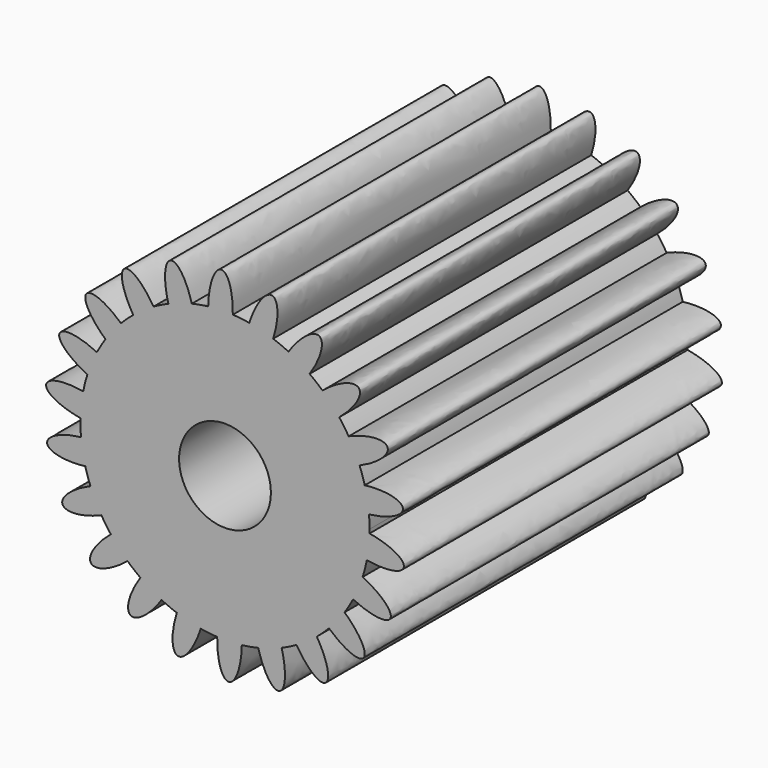
from build123d import *

# Parameters (mm, degrees)
F1_DEPTH = 21.9964


with BuildPart() as f1:
    # F0 (on Front) → F1 (new body)
    with BuildSketch(Plane.XZ):
        with BuildLine():
            ThreePointArc((8.0161047797, -0.495578575), (8.0181994145, -0.3899014812), (8.0188976667, -0.2842059369))
            ThreePointArc((8.0188976667, -0.2842059369), (8.0110159259, 0.0708232595), (7.9873862341, 0.4251528938))
            ThreePointArc((7.9873862341, 0.4251528938), (7.8981258153, 1.1006275486), (7.7517122539, 1.7660571095))
            ThreePointArc((7.7517122539, 1.7660571095), (7.6208442801, 2.2078630201), (7.4647569804, 2.6414015352))
            ThreePointArc((7.4647569804, 2.6414015352), (7.1888090341, 3.2643671543), (6.8608530792, 3.8615926754))
            ThreePointArc((6.8608530792, 3.8615926754), (6.610815069, 4.2486325735), (6.3389084873, 4.6206348585))
            ThreePointArc((6.3389084873, 4.6206348585), (5.8986286751, 5.1406224723), (5.4156993675, 5.6212602938))
            ThreePointArc((5.4156993675, 5.6212602938), (5.0667479136, 5.9221785086), (4.701050304, 6.2025071507))
            ThreePointArc((4.701050304, 6.2025071507), (4.1321074778, 6.5773904553), (3.5333288781, 6.9025021593))
            ThreePointArc((3.5333288781, 6.9025021593), (3.1137339519, 7.0929200867), (2.6838719599, 7.2588645266))
            ThreePointArc((2.6838719599, 7.2588645266), (2.0323584839, 7.4582727062), (1.3662400731, 7.6015196759))
            ThreePointArc((1.3662400731, 7.6015196759), (0.90999476, 7.6660107879), (0.4507932478, 7.7041271938))
            ThreePointArc((0.4507932478, 7.7041271938), (0.28348099, 7.7114175951), (0.1160527846, 7.7152040966))
            Line((0.1160527846, 7.7152040966), (0.0497444166, 2.2556067488))
            ThreePointArc((0.0497444166, 2.2556067488), (1.8258219519, 1.5009060001), (2.5588976667, -0.2842059369))
            ThreePointArc((2.5588976667, -0.2842059369), (-1.6423982056, -2.205584615), (-0.3479495968, 2.2291629348))
            Line((-0.3479495968, 2.2291629348), (-1.1365267853, 7.6319164937))
            ThreePointArc((-1.1365267853, 7.6319164937), (-1.4783059162, 7.5744441655), (-1.8172750757, 7.5022226193))
            ThreePointArc((-1.8172750757, 7.5022226193), (-2.4731712903, 7.3177406766), (-3.1109909155, 7.0781168938))
            ThreePointArc((-3.1109909155, 7.0781168938), (-3.5296754244, 6.8857054306), (-3.9365876037, 6.6695079108))
            ThreePointArc((-3.9365876037, 6.6695079108), (-4.5139408437, 6.3077114655), (-5.0584144715, 5.8980995758))
            ThreePointArc((-5.0584144715, 5.8980995758), (-5.4059307425, 5.5955250715), (-5.7354502394, 5.2734446617))
            ThreePointArc((-5.7354502394, 5.2734446617), (-6.1874867788, 4.76364431), (-6.594504394, 4.2172286327))
            ThreePointArc((-6.594504394, 4.2172286327), (-6.8426987255, 3.8290038743), (-7.0681298301, 3.4271336138))
            ThreePointArc((-7.0681298301, 3.4271336138), (-7.3582283569, 2.8106303483), (-7.594815813, 2.1716782318))
            ThreePointArc((-7.594815813, 2.1716782318), (-7.7235809763, 1.7292548804), (-7.8266606012, 1.2801519076))
            ThreePointArc((-7.8266606012, 1.2801519076), (-7.9313190581, 0.6068911565), (-7.9783094463, -0.0728332987))
            ThreePointArc((-7.9783094463, -0.0728332987), (-7.9772136538, -0.5336127345), (-7.9495909008, -0.9935647675))
            ThreePointArc((-7.9495909008, -0.9935647675), (-7.8603304819, -1.6690394223), (-7.7139169206, -2.3344689832))
            ThreePointArc((-7.7139169206, -2.3344689832), (-7.5830489468, -2.7762748938), (-7.426961647, -3.2098134089))
            ThreePointArc((-7.426961647, -3.2098134089), (-7.1510137008, -3.832779028), (-6.8230577458, -4.4300045492))
            ThreePointArc((-6.8230577458, -4.4300045492), (-6.5730197356, -4.8170444472), (-6.3011131539, -5.1890467322))
            ThreePointArc((-6.3011131539, -5.1890467322), (-5.8608333417, -5.709034346), (-5.3779040342, -6.1896721675))
            ThreePointArc((-5.3779040342, -6.1896721675), (-5.0289525802, -6.4905903823), (-4.6632549707, -6.7709190244))
            ThreePointArc((-4.6632549707, -6.7709190244), (-4.0943121445, -7.145802329), (-3.4955335448, -7.4709140331))
            ThreePointArc((-3.4955335448, -7.4709140331), (-3.0759386185, -7.6613319604), (-2.6460766266, -7.8272764003))
            ThreePointArc((-2.6460766266, -7.8272764003), (-1.9945631505, -8.0266845799), (-1.3284447398, -8.1699315496))
            ThreePointArc((-1.3284447398, -8.1699315496), (-0.8721994267, -8.2344226616), (-0.4129979145, -8.2725390676))
            ThreePointArc((-0.4129979145, -8.2725390676), (0.2683044643, -8.2803172573), (0.9477977341, -8.2300944753))
            ThreePointArc((0.9477977341, -8.2300944753), (1.4037311521, -8.1634340855), (1.855070409, -8.070634493))
            ThreePointArc((1.855070409, -8.070634493), (2.5109666237, -7.8861525503), (3.1487862489, -7.6465287675))
            ThreePointArc((3.1487862489, -7.6465287675), (3.5674707578, -7.4541173043), (3.9743829371, -7.2379197845))
            ThreePointArc((3.9743829371, -7.2379197845), (4.551736177, -6.8761233392), (5.0962098049, -6.4665114495))
            ThreePointArc((5.0962098049, -6.4665114495), (5.4437260758, -6.1639369453), (5.7732455727, -5.8418565354))
            ThreePointArc((5.7732455727, -5.8418565354), (6.2252821121, -5.3320561838), (6.6322997274, -4.7856405064))
            ThreePointArc((6.6322997274, -4.7856405064), (6.8804940589, -4.397415748), (7.1059251635, -3.9955454875))
            ThreePointArc((7.1059251635, -3.9955454875), (7.3960236903, -3.3790422221), (7.6326111463, -2.7400901055))
            ThreePointArc((7.6326111463, -2.7400901055), (7.7613763097, -2.2976667541), (7.8644559345, -1.8485637813))
            ThreePointArc((7.8644559345, -1.8485637813), (7.9691143914, -1.1753030302), (8.0161047797, -0.495578575))
        make_face()
        with BuildLine():
            ThreePointArc((7.7517122539, 1.7660571095), (7.8981258153, 1.1006275486), (7.9873862341, 0.4251528938))
            add(Edge.make_bspline(
                [(7.9873862341, 0.4251528938), (9.9799214507, 0.6578454674), (9.8603263673, 1.3383005235), (9.740731284, 2.0187555796), (7.7517122539, 1.7660571095)],
                knots=[1.5766588322, 1.5766588322, 1.5766588322, 3.162156069, 3.162156069, 4.7476533058, 4.7476533058, 4.7476533058], degree=2, weights=[1, 0.7018901693, 1, 0.7018901693, 1]))
        make_face()
        with BuildLine():
            add(Edge.make_bspline(
                [(7.8644559345, -1.8485637813), (9.8418365482, -2.1866589331), (9.9187922489, -1.5000732593), (9.9957479495, -0.8134875855), (8.0161047797, -0.495578575)],
                knots=[1.5766588322, 1.5766588322, 1.5766588322, 3.162156069, 3.162156069, 4.7476533058, 4.7476533058, 4.7476533058], degree=2, weights=[1, 0.7018901693, 1, 0.7018901693, 1]))
            ThreePointArc((8.0161047797, -0.495578575), (7.9691143914, -1.1753030302), (7.8644559345, -1.8485637813))
        make_face()
        with BuildLine():
            ThreePointArc((6.8608530792, 3.8615926754), (7.1888090341, 3.2643671543), (7.4647569804, 2.6414015352))
            add(Edge.make_bspline(
                [(7.4647569804, 2.6414015352), (9.3110234466, 3.4260304657), (9.0045664617, 4.0452284823), (8.6981094768, 4.6644264989), (6.8608530792, 3.8615926754)],
                knots=[1.5766588322, 1.5766588322, 1.5766588322, 3.162156069, 3.162156069, 4.7476533058, 4.7476533058, 4.7476533058], degree=2, weights=[1, 0.7018901693, 1, 0.7018901693, 1]))
        make_face()
        with BuildLine():
            add(Edge.make_bspline(
                [(7.1059251635, -3.9955454875), (8.9079555569, -4.8770379062), (9.1752275483, -4.2399447027), (9.4424995397, -3.6028514992), (7.6326111463, -2.7400901055)],
                knots=[1.5766588322, 1.5766588322, 1.5766588322, 3.162156069, 3.162156069, 4.7476533058, 4.7476533058, 4.7476533058], degree=2, weights=[1, 0.7018901693, 1, 0.7018901693, 1]))
            ThreePointArc((7.6326111463, -2.7400901055), (7.3960236903, -3.3790422221), (7.1059251635, -3.9955454875))
        make_face()
        with BuildLine():
            ThreePointArc((5.4156993675, 5.6212602938), (5.8986286751, 5.1406224723), (6.3389084873, 4.6206348585))
            add(Edge.make_bspline(
                [(6.3389084873, 4.6206348585), (7.8893326743, 5.8936341764), (7.4208411102, 6.4014114126), (6.9523495461, 6.9091886488), (5.4156993675, 5.6212602938)],
                knots=[1.5766588322, 1.5766588322, 1.5766588322, 3.162156069, 3.162156069, 4.7476533058, 4.7476533058, 4.7476533058], degree=2, weights=[1, 0.7018901693, 1, 0.7018901693, 1]))
        make_face()
        with BuildLine():
            add(Edge.make_bspline(
                [(5.7732455727, -5.8418565354), (7.2539359605, -7.1953329477), (7.6898714555, -6.659345717), (8.1258069504, -6.1233584862), (6.6322997274, -4.7856405064)],
                knots=[1.5766588322, 1.5766588322, 1.5766588322, 3.162156069, 3.162156069, 4.7476533058, 4.7476533058, 4.7476533058], degree=2, weights=[1, 0.7018901693, 1, 0.7018901693, 1]))
            ThreePointArc((6.6322997274, -4.7856405064), (6.2252821121, -5.3320561838), (5.7732455727, -5.8418565354))
        make_face()
        with BuildLine():
            ThreePointArc((3.5333288781, 6.9025021593), (4.1321074778, 6.5773904553), (4.701050304, 6.2025071507))
            add(Edge.make_bspline(
                [(4.701050304, 6.2025071507), (5.8300260649, 7.860746022), (5.2374543219, 8.2159653862), (4.6448825788, 8.5711847503), (3.5333288781, 6.9025021593)],
                knots=[1.5766588322, 1.5766588322, 1.5766588322, 3.162156069, 3.162156069, 4.7476533058, 4.7476533058, 4.7476533058], degree=2, weights=[1, 0.7018901693, 1, 0.7018901693, 1]))
        make_face()
        with BuildLine():
            add(Edge.make_bspline(
                [(3.9743829371, -7.2379197845), (5.01377659, -8.9537295809), (5.5830586873, -8.5622708207), (6.1523407846, -8.1708120604), (5.0962098049, -6.4665114495)],
                knots=[1.5766588322, 1.5766588322, 1.5766588322, 3.162156069, 3.162156069, 4.7476533058, 4.7476533058, 4.7476533058], degree=2, weights=[1, 0.7018901693, 1, 0.7018901693, 1]))
            ThreePointArc((5.0962098049, -6.4665114495), (4.551736177, -6.8761233392), (3.9743829371, -7.2379197845))
        make_face()
        with BuildLine():
            ThreePointArc((1.3662400731, 7.6015196759), (2.0323584839, 7.4582727062), (2.6838719599, 7.2588645266))
            add(Edge.make_bspline(
                [(2.6838719599, 7.2588645266), (3.2999363928, 9.1680022999), (2.6312911093, 9.3418860316), (1.9626458258, 9.5157697633), (1.3662400731, 7.6015196759)],
                knots=[1.5766588322, 1.5766588322, 1.5766588322, 3.162156069, 3.162156069, 4.7476533058, 4.7476533058, 4.7476533058], degree=2, weights=[1, 0.7018901693, 1, 0.7018901693, 1]))
        make_face()
        with BuildLine():
            add(Edge.make_bspline(
                [(1.855070409, -8.070634493), (2.3689618348, -10.0097729681), (3.0254706846, -9.794556339), (3.6819795344, -9.5793397099), (3.1487862489, -7.6465287675)],
                knots=[1.5766588322, 1.5766588322, 1.5766588322, 3.162156069, 3.162156069, 4.7476533058, 4.7476533058, 4.7476533058], degree=2, weights=[1, 0.7018901693, 1, 0.7018901693, 1]))
            ThreePointArc((3.1487862489, -7.6465287675), (2.5109666237, -7.8861525503), (1.855070409, -8.070634493))
        make_face()
        with BuildLine():
            ThreePointArc((0.1160527846, 7.7152040966), (0.28348099, 7.7114175951), (0.4507932478, 7.7041271938))
            add(Edge.make_bspline(
                [(0.4507932478, 7.7041271938), (0.5040364762, 9.7094968809), (-0.1865126834, 9.6879579543), (-0.8770618431, 9.6664190277), (-0.9100024007, 7.6616826015)],
                knots=[1.5766588322, 1.5766588322, 1.5766588322, 3.162156069, 3.162156069, 4.7476533058, 4.7476533058, 4.7476533058], degree=2, weights=[1, 0.7018901693, 1, 0.7018901693, 1]))
            ThreePointArc((-0.9100024007, 7.6616826015), (-0.3978349249, 7.7049325616), (0.1160527846, 7.7152040966))
        make_face()
        with BuildLine():
            add(Edge.make_bspline(
                [(-0.4129979145, -8.2725390676), (-0.4662411429, -10.2779087546), (0.2243080168, -10.256369828), (0.9148571765, -10.2348309015), (0.9477977341, -8.2300944753)],
                knots=[1.5766588322, 1.5766588322, 1.5766588322, 3.162156069, 3.162156069, 4.7476533058, 4.7476533058, 4.7476533058], degree=2, weights=[1, 0.7018901693, 1, 0.7018901693, 1]))
            ThreePointArc((0.9477977341, -8.2300944753), (0.2683044643, -8.2803172573), (-0.4129979145, -8.2725390676))
        make_face()
        with BuildLine():
            Line((0.0497444166, 2.2556067488), (0.1160527846, 7.7152040966))
            ThreePointArc((0.1160527846, 7.7152040966), (-0.3978349249, 7.7049325616), (-0.9100024007, 7.6616826015))
            ThreePointArc((-0.9100024007, 7.6616826015), (-1.0233708596, 7.6476082515), (-1.1365267853, 7.6319164937))
            Line((-1.1365267853, 7.6319164937), (-0.3479495968, 2.2291629348))
            ThreePointArc((-0.3479495968, 2.2291629348), (-0.1496220802, 2.250197562), (0.0497444166, 2.2556067488))
        make_face()
        with BuildLine():
            add(Edge.make_bspline(
                [(-2.6460766266, -7.8272764003), (-3.2621410595, -9.7364141736), (-2.593495776, -9.9102979053), (-1.9248504925, -10.084181637), (-1.3284447398, -8.1699315496)],
                knots=[1.5766588322, 1.5766588322, 1.5766588322, 3.162156069, 3.162156069, 4.7476533058, 4.7476533058, 4.7476533058], degree=2, weights=[1, 0.7018901693, 1, 0.7018901693, 1]))
            ThreePointArc((-1.3284447398, -8.1699315496), (-1.9945631505, -8.0266845799), (-2.6460766266, -7.8272764003))
        make_face()
        with BuildLine():
            ThreePointArc((-3.1109909155, 7.0781168938), (-2.4731712903, 7.3177406766), (-1.8172750757, 7.5022226193))
            add(Edge.make_bspline(
                [(-1.8172750757, 7.5022226193), (-2.3311665015, 9.4413610944), (-2.9876753513, 9.2261444653), (-3.6441842011, 9.0109278362), (-3.1109909155, 7.0781168938)],
                knots=[1.5766588322, 1.5766588322, 1.5766588322, 3.162156069, 3.162156069, 4.7476533058, 4.7476533058, 4.7476533058], degree=2, weights=[1, 0.7018901693, 1, 0.7018901693, 1]))
        make_face()
        with BuildLine():
            add(Edge.make_bspline(
                [(-4.6632549707, -6.7709190244), (-5.7922307316, -8.4291578957), (-5.1996589885, -8.7843772599), (-4.6070872455, -9.139596624), (-3.4955335448, -7.4709140331)],
                knots=[1.5766588322, 1.5766588322, 1.5766588322, 3.162156069, 3.162156069, 4.7476533058, 4.7476533058, 4.7476533058], degree=2, weights=[1, 0.7018901693, 1, 0.7018901693, 1]))
            ThreePointArc((-3.4955335448, -7.4709140331), (-4.0943121445, -7.145802329), (-4.6632549707, -6.7709190244))
        make_face()
        with BuildLine():
            ThreePointArc((-5.0584144715, 5.8980995758), (-4.5139408437, 6.3077114655), (-3.9365876037, 6.6695079108))
            add(Edge.make_bspline(
                [(-3.9365876037, 6.6695079108), (-4.9759812566, 8.3853177072), (-5.545263354, 7.9938589469), (-6.1145454513, 7.6024001867), (-5.0584144715, 5.8980995758)],
                knots=[1.5766588322, 1.5766588322, 1.5766588322, 3.162156069, 3.162156069, 4.7476533058, 4.7476533058, 4.7476533058], degree=2, weights=[1, 0.7018901693, 1, 0.7018901693, 1]))
        make_face()
        with BuildLine():
            add(Edge.make_bspline(
                [(-6.3011131539, -5.1890467322), (-7.8515373409, -6.4620460501), (-7.3830457768, -6.9698232863), (-6.9145542127, -7.4776005226), (-5.3779040342, -6.1896721675)],
                knots=[1.5766588322, 1.5766588322, 1.5766588322, 3.162156069, 3.162156069, 4.7476533058, 4.7476533058, 4.7476533058], degree=2, weights=[1, 0.7018901693, 1, 0.7018901693, 1]))
            ThreePointArc((-5.3779040342, -6.1896721675), (-5.8608333417, -5.709034346), (-6.3011131539, -5.1890467322))
        make_face()
        with BuildLine():
            ThreePointArc((-6.594504394, 4.2172286327), (-6.1874867788, 4.76364431), (-5.7354502394, 5.2734446617))
            add(Edge.make_bspline(
                [(-5.7354502394, 5.2734446617), (-7.2161406271, 6.626921074), (-7.6520761221, 6.0909338433), (-8.088011617, 5.5549466125), (-6.594504394, 4.2172286327)],
                knots=[1.5766588322, 1.5766588322, 1.5766588322, 3.162156069, 3.162156069, 4.7476533058, 4.7476533058, 4.7476533058], degree=2, weights=[1, 0.7018901693, 1, 0.7018901693, 1]))
        make_face()
        with BuildLine():
            add(Edge.make_bspline(
                [(-7.426961647, -3.2098134089), (-9.2732281133, -3.9944423395), (-8.9667711284, -4.613640356), (-8.6603141435, -5.2328383726), (-6.8230577458, -4.4300045492)],
                knots=[1.5766588322, 1.5766588322, 1.5766588322, 3.162156069, 3.162156069, 4.7476533058, 4.7476533058, 4.7476533058], degree=2, weights=[1, 0.7018901693, 1, 0.7018901693, 1]))
            ThreePointArc((-6.8230577458, -4.4300045492), (-7.1510137008, -3.832779028), (-7.426961647, -3.2098134089))
        make_face()
        with BuildLine():
            ThreePointArc((-7.594815813, 2.1716782318), (-7.3582283569, 2.8106303483), (-7.0681298301, 3.4271336138))
            add(Edge.make_bspline(
                [(-7.0681298301, 3.4271336138), (-8.8701602235, 4.3086260325), (-9.1374322149, 3.671532829), (-9.4047042063, 3.0344396255), (-7.594815813, 2.1716782318)],
                knots=[1.5766588322, 1.5766588322, 1.5766588322, 3.162156069, 3.162156069, 4.7476533058, 4.7476533058, 4.7476533058], degree=2, weights=[1, 0.7018901693, 1, 0.7018901693, 1]))
        make_face()
        with BuildLine():
            add(Edge.make_bspline(
                [(-7.9495909008, -0.9935647675), (-9.9421261173, -1.2262573411), (-9.822531034, -1.9067123972), (-9.7029359507, -2.5871674533), (-7.7139169206, -2.3344689832)],
                knots=[1.5766588322, 1.5766588322, 1.5766588322, 3.162156069, 3.162156069, 4.7476533058, 4.7476533058, 4.7476533058], degree=2, weights=[1, 0.7018901693, 1, 0.7018901693, 1]))
            ThreePointArc((-7.7139169206, -2.3344689832), (-7.8603304819, -1.6690394223), (-7.9495909008, -0.9935647675))
        make_face()
        with BuildLine():
            ThreePointArc((-7.9783094463, -0.0728332987), (-7.9313190581, 0.6068911565), (-7.8266606012, 1.2801519076))
            add(Edge.make_bspline(
                [(-7.8266606012, 1.2801519076), (-9.8040412149, 1.6182470594), (-9.8809969155, 0.9316613856), (-9.9579526161, 0.2450757118), (-7.9783094463, -0.0728332987)],
                knots=[1.5766588322, 1.5766588322, 1.5766588322, 3.162156069, 3.162156069, 4.7476533058, 4.7476533058, 4.7476533058], degree=2, weights=[1, 0.7018901693, 1, 0.7018901693, 1]))
        make_face()
    extrude(amount=F1_DEPTH)


solid = f1.part
